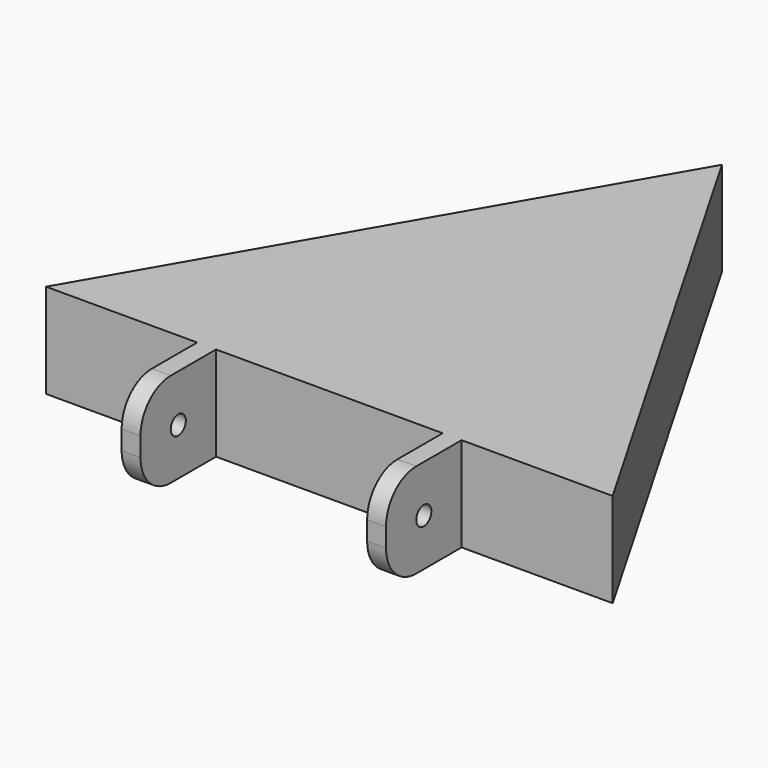
from build123d import *

# Parameters (mm, degrees)
F1_DEPTH = 12.7
F2_W     = 2.54
F2_H     = 12.7
F3_DEPTH = 12.7
F4_R     = 1.27
F5_DEPTH = 25.4
F6_R     = 1.27
F7_DEPTH = 25.4
F8_R     = 5.08


with BuildPart() as f1:
    # F0 (on Top) → F1 (new body)
    with BuildSketch(Plane.XY):
        Polygon((-38.1, -21.997045), (38.1, -21.997045), (0, 43.994091), align=None)
    extrude(amount=F1_DEPTH)

    # F2 (on face) → F3 (join)
    with BuildSketch(Plane.XZ.offset(21.997045)):
        with Locations((-16.51, 6.35)):
            Rectangle(F2_W, F2_H)
        with Locations((16.51, 6.35)):
            Rectangle(F2_W, F2_H)
    extrude(amount=F3_DEPTH)

    # F4 (on face) → F5 (cut)
    with BuildSketch(Plane.YZ.offset(17.78)):
        with Locations((-28.347045, 6.35)):
            Circle(F4_R)
    extrude(amount=-F5_DEPTH, mode=Mode.SUBTRACT)

    # F6 (on face) → F7 (cut)
    with BuildSketch(Plane(origin=(-17.78, 0, 0), x_dir=(0, -1, 0), z_dir=(-1, 0, 0))):
        with Locations((28.347045, 6.35)):
            Circle(F6_R)
    extrude(amount=-F7_DEPTH, mode=Mode.SUBTRACT)

    # F8
    f8_edges = [f1.edges().sort_by_distance(p)[0] for p in [
        (-16.51, -34.697045, 12.7),
        (-16.51, -34.697045, 0),
        (16.51, -34.697045, 0),
        (16.51, -34.697045, 12.7),
    ]]
    fillet(f8_edges, radius=F8_R)


solid = f1.part
